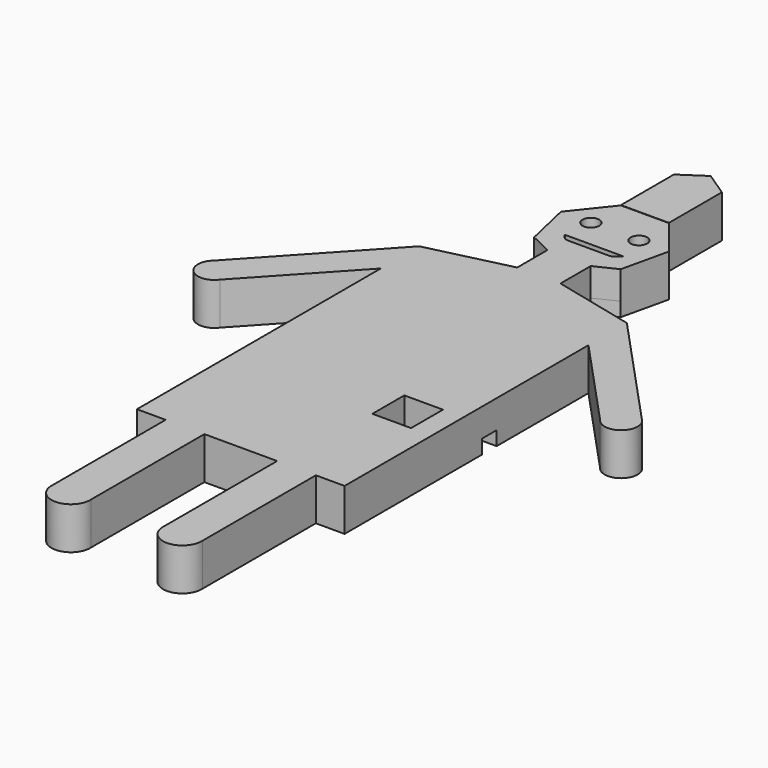
from build123d import *

# Parameters (mm, degrees)
F1_DEPTH  = 12.7
F2_R      = 7.5104207728
F3_DEPTH  = 12.701
F4_W      = 187.1625185013
F4_H      = 16.4809370326
F4_W_2    = 34.8658077419
F4_H_2    = 35.9553694725
F5_DEPTH  = 12.7
F5_FACE_R = 7.5104207728
F5_FACE_W = 34.8658077419
F5_FACE_H = 35.9553694725
F6_DEPTH  = 25.4
F7_DEPTH  = 12.7
F9_DEPTH  = 38.354


with BuildPart() as f1:
    # F0 (on Top) → F1 (new body)
    with BuildSketch(Plane.XY):
        Polygon((21.6443181937, 44.9448898435), (-21.6443181937, 44.9448898435), (-48.6343415176, 11.1004710827), (-39.001713719, -31.1028288117), (0, -49.8850642288), (39.001713719, -31.1028288117), (48.6343415176, 11.1004710827), align=None)
    extrude(amount=F1_DEPTH)

    # F2 (on face) → F3 (cut, through all)
    with BuildSketch(Plane.XY.offset(12.7)):
        with Locations((-21.6443181937, 11.1004710827)):
            Circle(F2_R)
        with Locations((21.6443181937, 11.1004710827)):
            Circle(F2_R)
        with BuildLine():
            ThreePointArc((-22.3923972439, -17.5961239861), (-20.1468702335, -19.4861496183), (-17.2912654826, -20.1644636691))
            Line((-17.2912654826, -20.1644636691), (19.5472728087, -20.1644636691))
            ThreePointArc((19.5472728087, -20.1644636691), (21.5385429204, -19.8441687483), (23.3289331258, -18.9155954304))
            Line((23.3289331258, -18.9155954304), (29.0724616498, -14.657702297))
            Line((29.0724616498, -14.657702297), (-24.5707594616, -14.657702297))
            Line((-24.5707594616, -14.657702297), (-22.3923972439, -17.5961239861))
        make_face()
    extrude(amount=-F3_DEPTH, mode=Mode.SUBTRACT)

    # F4 (on face) → F5 (join)
    with BuildSketch(Plane.XY.offset(12.7)):
        with BuildLine():
            Line((56.5410580551, -83.4953508641), (19.5008568595, -74.5715907042))
            Line((19.5008568595, -74.5715907042), (-19.5008568595, -74.5715907042))
            Line((-19.5008568595, -74.5715907042), (-56.5410580551, -83.4953508641))
            add(Edge.make_bspline(
                [(-56.5410580551, -83.4953508641), (-37.4583826818, -107.754176934), (0, -155.2743553327), (37.4583826818, -107.754176934), (56.5410580551, -83.4953508641)],
                knots=[0, 0, 0, 0, 0.5, 1, 1, 1, 1], degree=3))
        make_face()
        with BuildLine():
            Line((93.5812592506, -92.419111024), (56.5410580551, -83.4953508641))
            add(Edge.make_bspline(
                [(-56.5410580551, -83.4953508641), (-37.4583826818, -107.754176934), (0, -155.2743553327), (37.4583826818, -107.754176934), (56.5410580551, -83.4953508641)],
                knots=[0, 0, 0, 0, 0.5, 1, 1, 1, 1], degree=3))
            Line((-56.5410580551, -83.4953508641), (-93.5812592506, -92.419111024))
            Line((-93.5812592506, -92.419111024), (-93.5812592506, -135.6894243062))
            Line((-93.5812592506, -135.6894243062), (-93.5812592506, -239.1290962696))
            Line((-93.5812592506, -239.1290962696), (93.5812592506, -239.1290962696))
            Line((93.5812592506, -239.1290962696), (93.5812592506, -135.6894243062))
            Line((93.5812592506, -135.6894243062), (93.5812592506, -92.419111024))
        make_face()
        with BuildLine():
            Line((192.9354845729, -199.789452925), (93.5812592506, -92.419111024))
            Line((93.5812592506, -92.419111024), (93.5812592506, -135.6894243062))
            Line((93.5812592506, -135.6894243062), (171.3652932207, -219.7492445575))
            ThreePointArc((171.3652932207, -219.7492445575), (193.3684597033, -221.8925180787), (192.9354845729, -199.789452925))
        make_face()
        with BuildLine():
            Line((-93.5812592506, -135.6894243062), (-93.5812592506, -92.419111024))
            Line((-93.5812592506, -92.419111024), (-192.9354845729, -199.789452925))
            ThreePointArc((-192.9354845729, -199.789452925), (-193.3684597033, -221.8925180787), (-171.3652932207, -219.7492445575))
            Line((-171.3652932207, -219.7492445575), (-93.5812592506, -135.6894243062))
        make_face()
        with Locations((0, -247.3695647859)):
            Rectangle(F4_W, F4_H)
        Polygon((93.5812592506, -410.4407429695), (93.5812592506, -255.6100333022), (-93.5812592506, -255.6100333022), (-93.5812592506, -410.4407429695), (-67.6731318235, -410.4407429695), (-32.8073054552, -410.4407429695), (0, -410.4407429695), (32.8073054552, -410.4407429695), (67.6731318235, -410.4407429695), align=None)
        with Locations((57.6258767396, -294.4029867649)):
            Rectangle(F4_W_2, F4_H_2, mode=Mode.SUBTRACT)
        with BuildLine():
            Line((67.6731318235, -537.919596071), (67.6731318235, -410.4407429695))
            Line((67.6731318235, -410.4407429695), (32.8073054552, -410.4407429695))
            Line((32.8073054552, -410.4407429695), (32.8073054552, -537.919596071))
            ThreePointArc((32.8073054552, -537.919596071), (50.2402186394, -556.4753226857), (67.6731318235, -537.919596071))
        make_face()
        with BuildLine():
            Line((-32.8073054552, -410.4407429695), (-67.6731318235, -410.4407429695))
            Line((-67.6731318235, -410.4407429695), (-67.6731318235, -537.919596071))
            ThreePointArc((-67.6731318235, -537.919596071), (-50.2402186394, -556.4753226857), (-32.8073054552, -537.919596071))
            Line((-32.8073054552, -537.919596071), (-32.8073054552, -410.4407429695))
        make_face()
        Polygon((0, -49.8850642288), (-19.5008568595, -40.4939465203), (-19.5008568595, -74.5715907042), (19.5008568595, -74.5715907042), (19.5008568595, -40.4939465203), align=None)
    extrude(amount=-F5_DEPTH)

    # F4 (on face) + F5_face (on face) → F6 (join)
    with BuildSketch(Plane.XY.offset(12.7)):
        with BuildLine():
            Line((56.5410580551, -83.4953508641), (19.5008568595, -74.5715907042))
            Line((19.5008568595, -74.5715907042), (-19.5008568595, -74.5715907042))
            Line((-19.5008568595, -74.5715907042), (-56.5410580551, -83.4953508641))
            add(Edge.make_bspline(
                [(-56.5410580551, -83.4953508641), (-37.4583826818, -107.754176934), (0, -155.2743553327), (37.4583826818, -107.754176934), (56.5410580551, -83.4953508641)],
                knots=[0, 0, 0, 0, 0.5, 1, 1, 1, 1], degree=3))
        make_face()
        with BuildLine():
            Line((93.5812592506, -92.419111024), (56.5410580551, -83.4953508641))
            add(Edge.make_bspline(
                [(-56.5410580551, -83.4953508641), (-37.4583826818, -107.754176934), (0, -155.2743553327), (37.4583826818, -107.754176934), (56.5410580551, -83.4953508641)],
                knots=[0, 0, 0, 0, 0.5, 1, 1, 1, 1], degree=3))
            Line((-56.5410580551, -83.4953508641), (-93.5812592506, -92.419111024))
            Line((-93.5812592506, -92.419111024), (-93.5812592506, -135.6894243062))
            Line((-93.5812592506, -135.6894243062), (-93.5812592506, -239.1290962696))
            Line((-93.5812592506, -239.1290962696), (93.5812592506, -239.1290962696))
            Line((93.5812592506, -239.1290962696), (93.5812592506, -135.6894243062))
            Line((93.5812592506, -135.6894243062), (93.5812592506, -92.419111024))
        make_face()
        with BuildLine():
            Line((192.9354845729, -199.789452925), (93.5812592506, -92.419111024))
            Line((93.5812592506, -92.419111024), (93.5812592506, -135.6894243062))
            Line((93.5812592506, -135.6894243062), (171.3652932207, -219.7492445575))
            ThreePointArc((171.3652932207, -219.7492445575), (193.3684597033, -221.8925180787), (192.9354845729, -199.789452925))
        make_face()
        with BuildLine():
            Line((-93.5812592506, -135.6894243062), (-93.5812592506, -92.419111024))
            Line((-93.5812592506, -92.419111024), (-192.9354845729, -199.789452925))
            ThreePointArc((-192.9354845729, -199.789452925), (-193.3684597033, -221.8925180787), (-171.3652932207, -219.7492445575))
            Line((-171.3652932207, -219.7492445575), (-93.5812592506, -135.6894243062))
        make_face()
        with Locations((0, -247.3695647859)):
            Rectangle(F4_W, F4_H)
        Polygon((93.5812592506, -410.4407429695), (93.5812592506, -255.6100333022), (-93.5812592506, -255.6100333022), (-93.5812592506, -410.4407429695), (-67.6731318235, -410.4407429695), (-32.8073054552, -410.4407429695), (0, -410.4407429695), (32.8073054552, -410.4407429695), (67.6731318235, -410.4407429695), align=None)
        with Locations((57.6258767396, -294.4029867649)):
            Rectangle(F4_W_2, F4_H_2, mode=Mode.SUBTRACT)
        with BuildLine():
            Line((67.6731318235, -537.919596071), (67.6731318235, -410.4407429695))
            Line((67.6731318235, -410.4407429695), (32.8073054552, -410.4407429695))
            Line((32.8073054552, -410.4407429695), (32.8073054552, -537.919596071))
            ThreePointArc((32.8073054552, -537.919596071), (50.2402186394, -556.4753226857), (67.6731318235, -537.919596071))
        make_face()
        with BuildLine():
            Line((-32.8073054552, -410.4407429695), (-67.6731318235, -410.4407429695))
            Line((-67.6731318235, -410.4407429695), (-67.6731318235, -537.919596071))
            ThreePointArc((-67.6731318235, -537.919596071), (-50.2402186394, -556.4753226857), (-32.8073054552, -537.919596071))
            Line((-32.8073054552, -537.919596071), (-32.8073054552, -410.4407429695))
        make_face()
    with BuildSketch(Plane(origin=(-0.8446468995, -244.4359717848, 12.7), x_dir=(1, 0, 0), z_dir=(0, 0, 1))):
        with BuildLine():
            Line((22.4889650932, 289.3808616283), (-20.7996712942, 289.3808616283))
            Line((-20.7996712942, 289.3808616283), (-47.7896946182, 255.5364428675))
            Line((-47.7896946182, 255.5364428675), (-38.1570668195, 213.3331429731))
            Line((-38.1570668195, 213.3331429731), (-18.65620996, 203.9420252645))
            Line((-18.65620996, 203.9420252645), (-18.65620996, 169.8643810806))
            Line((-18.65620996, 169.8643810806), (-92.7366123512, 152.0168607608))
            Line((-92.7366123512, 152.0168607608), (-192.0908376734, 44.6465188598))
            ThreePointArc((-192.0908376734, 44.6465188598), (-192.5238128038, 22.5434537061), (-170.5206463212, 24.6867272273))
            Line((-170.5206463212, 24.6867272273), (-92.7366123512, 108.7465474786))
            Line((-92.7366123512, 108.7465474786), (-92.7366123512, -166.0047711847))
            Line((-92.7366123512, -166.0047711847), (-66.8284849241, -166.0047711847))
            Line((-66.8284849241, -166.0047711847), (-66.8284849241, -293.4836242862))
            ThreePointArc((-66.8284849241, -293.4836242862), (-49.3955717399, -312.0393509009), (-31.9626585557, -293.4836242862))
            Line((-31.9626585557, -293.4836242862), (-31.9626585557, -166.0047711847))
            Line((-31.9626585557, -166.0047711847), (33.6519523547, -166.0047711847))
            Line((33.6519523547, -166.0047711847), (33.6519523547, -293.4836242862))
            ThreePointArc((33.6519523547, -293.4836242862), (51.0848655389, -312.0393509009), (68.517778723, -293.4836242862))
            Line((68.517778723, -293.4836242862), (68.517778723, -166.0047711847))
            Line((68.517778723, -166.0047711847), (94.4259061501, -166.0047711847))
            Line((94.4259061501, -166.0047711847), (94.4259061501, 108.7465474786))
            Line((94.4259061501, 108.7465474786), (172.2099401201, 24.6867272273))
            ThreePointArc((172.2099401201, 24.6867272273), (194.2131066028, 22.5434537061), (193.7801314724, 44.6465188598))
            Line((193.7801314724, 44.6465188598), (94.4259061501, 152.0168607608))
            Line((94.4259061501, 152.0168607608), (20.345503759, 169.8643810806))
            Line((20.345503759, 169.8643810806), (20.345503759, 203.9420252645))
            Line((20.345503759, 203.9420252645), (39.8463606185, 213.3331429731))
            Line((39.8463606185, 213.3331429731), (49.4789884171, 255.5364428675))
            Line((49.4789884171, 255.5364428675), (22.4889650932, 289.3808616283))
        make_face()
        with BuildLine():
            Line((-21.5477503444, 226.8398477987), (-23.7261125621, 229.7782694878))
            Line((-23.7261125621, 229.7782694878), (29.9171085493, 229.7782694878))
            Line((29.9171085493, 229.7782694878), (24.1735800252, 225.5203763544))
            ThreePointArc((24.1735800252, 225.5203763544), (22.3831898199, 224.5918030365), (20.3919197082, 224.2715081157))
            Line((20.3919197082, 224.2715081157), (-16.4466185831, 224.2715081157))
            ThreePointArc((-16.4466185831, 224.2715081157), (-19.302223334, 224.9498221665), (-21.5477503444, 226.8398477987))
        make_face(mode=Mode.SUBTRACT)
        with Locations((-20.7996712942, 255.5364428675)):
            Circle(F5_FACE_R, mode=Mode.SUBTRACT)
        with Locations((22.4889650932, 255.5364428675)):
            Circle(F5_FACE_R, mode=Mode.SUBTRACT)
        with Locations((58.4705236391, -49.9670149801)):
            Rectangle(F5_FACE_W, F5_FACE_H, mode=Mode.SUBTRACT)
    extrude(amount=F6_DEPTH)

    # F4 (on face) → F7 (cut)
    with BuildSketch(Plane.XY.offset(12.7)):
        with Locations((0, -247.3695647859)):
            Rectangle(F4_W, F4_H)
    extrude(amount=-F7_DEPTH, mode=Mode.SUBTRACT)

    # F8 (on face) → F9 (join)
    with BuildSketch(Plane(origin=(0, 0, 0), x_dir=(1, 0, 0), z_dir=(0, 0, -1))):
        Polygon((21.6443181937, -104.6233549714), (21.6443181937, -44.9448898435), (-21.6443181937, -44.9448898435), (-21.6443181937, -104.6233549714), (0, -119.0398335457), align=None)
    extrude(amount=-F9_DEPTH)


solid = f1.part
